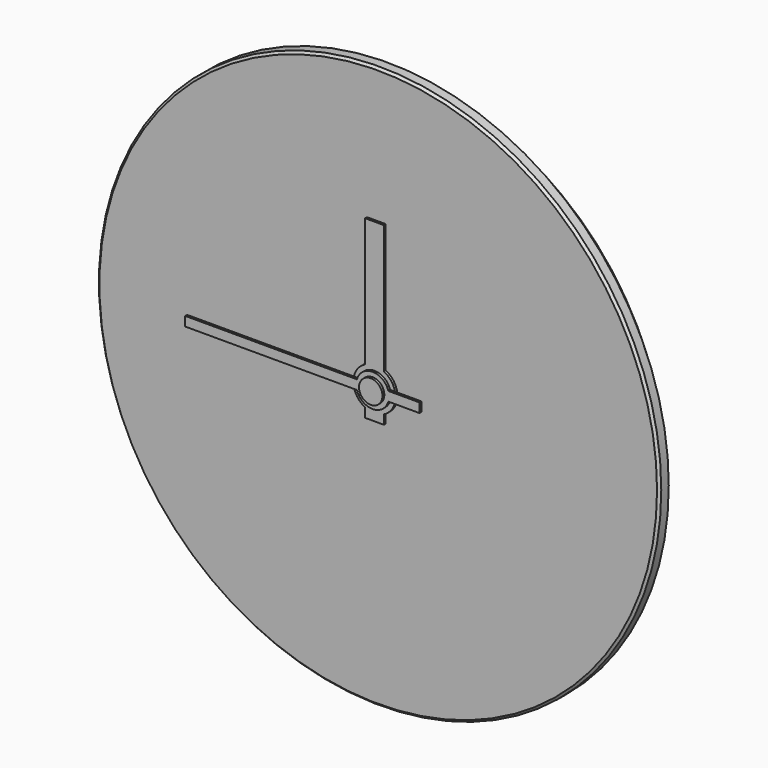
from build123d import *

# Parameters (mm, degrees)
F0_R      = 120
F1_DEPTH  = 15
F2_R      = 2.5
F3_DEPTH  = 15
F5_DEPTH  = 17
F7_DEPTH  = 15.5
F8_W      = 16.4
F8_H      = 56
F9_DEPTH  = 7.8
F10_R     = 7
F11_DEPTH = 2
F12_R     = 1
F13_R     = 7.125
F14_DEPTH = 21.9
F15_R     = 2
F16_R     = 4
F17_DEPTH = 15
F19_START = 1
F19_DEPTH = 1
F21_DEPTH = 1
F22_R     = 5
F23_DEPTH = 1
F24_SIZE  = 1
F25_SIZE  = 10
F27_DEPTH = 6


with BuildPart() as f1:
    # F0 (on Front) → F1 (new body)
    with BuildSketch(Plane.XZ):
        Circle(F0_R)
    extrude(amount=-F1_DEPTH)

    # F2 (on face) → F3 (cut, through all)
    with BuildSketch(Plane(origin=(0, 15, 0), x_dir=(-1, 0, 0), z_dir=(0, 1, 0))):
        Circle(F2_R)
    extrude(amount=-F3_DEPTH, mode=Mode.SUBTRACT)

    # F16 (on face) → F17 (cut, through all)
    with BuildSketch(Plane.XZ):
        Circle(F16_R)
    extrude(amount=-F17_DEPTH, mode=Mode.SUBTRACT)

    # F24
    f24_edges = [f1.edges().sort_by_distance(p)[0] for p in [
        (-120, 0, 0),
    ]]
    chamfer(f24_edges, length=F24_SIZE)

    # F25
    f25_edges = [f1.edges().sort_by_distance(p)[0] for p in [
        (-120, 15, 0),
    ]]
    chamfer(f25_edges, length=F25_SIZE)


with BuildPart() as f5:
    # F4 (on face) → F5 (new body)
    with BuildSketch(Plane(origin=(0, 15, 0), x_dir=(-1, 0, 0), z_dir=(0, 1, 0))):
        with BuildLine():
            ThreePointArc((-28, -20), (-25.6568542495, -25.6568542495), (-20, -28))
            Line((-20, -28), (20, -28))
            ThreePointArc((20, -28), (25.6568542495, -25.6568542495), (28, -20))
            Line((28, -20), (28, 20))
            ThreePointArc((28, 20), (25.6568542495, 25.6568542495), (20, 28))
            Line((20, 28), (-20, 28))
            ThreePointArc((-20, 28), (-25.6568542495, 25.6568542495), (-28, 20))
            Line((-28, 20), (-28, -20))
        make_face()
    extrude(amount=F5_DEPTH)

    # F6 (on face) → F7 (cut)
    with BuildSketch(Plane(origin=(0, 32, 0), x_dir=(-1, 0, 0), z_dir=(0, 1, 0))):
        with BuildLine():
            Line((-25.6, 20), (-25.6, -20))
            ThreePointArc((-25.6, -20), (-23.9597979746, -23.9597979746), (-20, -25.6))
            Line((-20, -25.6), (-11.6, -25.6))
            Line((-11.6, -25.6), (-11.6, 25.6))
            Line((-11.6, 25.6), (-20, 25.6))
            ThreePointArc((-20, 25.6), (-23.9597979746, 23.9597979746), (-25.6, 20))
        make_face()
    extrude(amount=-F7_DEPTH, mode=Mode.SUBTRACT)

    # F8 (on face) → F9 (cut)
    with BuildSketch(Plane(origin=(0, 32, 0), x_dir=(-1, 0, 0), z_dir=(0, 1, 0))):
        with Locations((-19.8, 0)):
            Rectangle(F8_W, F8_H)
    extrude(amount=-F9_DEPTH, mode=Mode.SUBTRACT)

    # F10 (on face) → F11 (cut)
    with BuildSketch(Plane(origin=(0, 32, 0), x_dir=(-1, 0, 0), z_dir=(0, 1, 0))):
        with BuildLine():
            Line((-11.6, 28), (-11.6, 12))
            Line((-11.6, 12), (-3.6, 12))
            ThreePointArc((-3.6, 12), (2.0568542495, 14.3431457505), (4.4, 20))
            Line((4.4, 20), (4.4, 28))
            Line((4.4, 28), (-11.6, 28))
        make_face()
        with Locations((-3.6, 20)):
            Circle(F10_R, mode=Mode.SUBTRACT)
    extrude(amount=-F11_DEPTH, mode=Mode.SUBTRACT)

    # F12
    f12_edges = [f5.edges().sort_by_distance(p)[0] for p in [
        (7.6, 32, 12),
        (-2.056854, 32, 14.343146),
        (-4.4, 32, 24),
        (-12.2, 32, 28),
        (-25.656854, 32, 25.656854),
        (-28, 32, 0),
        (-25.656854, 32, -25.656854),
        (-4.2, 32, -28),
        (11.6, 32, -8),
        (25.656854, 15, -25.656854),
        (0, 15, -28),
        (-25.656854, 15, -25.656854),
        (-28, 15, 0),
        (-25.656854, 15, 25.656854),
        (0, 15, 28),
        (25.656854, 15, 25.656854),
        (28, 15, 0),
    ]]
    fillet(f12_edges, radius=F12_R)

    # F26 (on face) → F27 (cut)
    with BuildSketch(Plane(origin=(0, 32, 0), x_dir=(-1, 0, 0), z_dir=(0, 1, 0))):
        with BuildLine():
            Line((14.908463777, -2.8692556116), (18.0987944834, -2.8692556116))
            ThreePointArc((18.0987944834, -2.8692556116), (20.968050095, 0), (18.0987944834, 2.8692556116))
            Line((18.0987944834, 2.8692556116), (14.908463777, 2.8692556116))
            ThreePointArc((14.908463777, 2.8692556116), (6.3112790491, 0), (14.908463777, -2.8692556116))
        make_face()
    extrude(amount=-F27_DEPTH, mode=Mode.SUBTRACT)


with BuildPart() as f14:
    # F13 (on Top) → F14 (new body, symmetric)
    with BuildSketch(Plane.XY):
        with Locations((18.6, 24.2)):
            Circle(F13_R)
    extrude(amount=F14_DEPTH, both=True)

    # F15
    f15_edges = [f14.edges().sort_by_distance(p)[0] for p in [
        (11.475, 24.2, -21.9),
        (11.475, 24.2, 21.9),
    ]]
    fillet(f15_edges, radius=F15_R)


with BuildPart() as f19:
    # F18 (on face) → F19 (new body)
    with BuildSketch(Plane.XZ.offset(F19_START)):
        with BuildLine():
            Line((-4, -8.0622577483), (-4, -8))
            Line((-4, -8), (-4, 8.0622577483))
            ThreePointArc((-4, 8.0622577483), (-9, 0), (-4, -8.0622577483))
        make_face()
        with BuildLine():
            Line((-4, 8.0622577483), (-4, -8))
            Line((-4, -8), (-4, -8.0622577483))
            ThreePointArc((-4, -8.0622577483), (0, -9), (4, -8.0622577483))
            Line((4, -8.0622577483), (4, -8))
            Line((4, -8), (4, 8.0622577483))
            ThreePointArc((4, 8.0622577483), (0, 9), (-4, 8.0622577483))
        make_face()
        with BuildLine():
            Line((-4, 59), (-4, 8.0622577483))
            ThreePointArc((-4, 8.0622577483), (0, 9), (4, 8.0622577483))
            Line((4, 8.0622577483), (4, 59))
            Line((4, 59), (4, 63))
            Line((4, 63), (-4, 63))
            Line((-4, 63), (-4, 59))
        make_face()
        with BuildLine():
            ThreePointArc((4, -8.0622577483), (0, -9), (-4, -8.0622577483))
            Line((-4, -8.0622577483), (-4, -12))
            Line((-4, -12), (4, -12))
            Line((4, -12), (4, -8.0622577483))
        make_face()
        with BuildLine():
            ThreePointArc((9, 0), (7.6485292704, 4.7434164903), (4, 8.0622577483))
            Line((4, 8.0622577483), (4, -8))
            Line((4, -8), (4, -8.0622577483))
            ThreePointArc((4, -8.0622577483), (7.6485292704, -4.7434164903), (9, 0))
        make_face()
    extrude(amount=F19_DEPTH)


with BuildPart() as f21:
    # F20 (on face) → F21 (new body)
    with BuildSketch(Plane.XZ.offset(2)):
        with BuildLine():
            ThreePointArc((6.7082039325, -2), (6.9266668581, -1.010587075), (7, 0))
            ThreePointArc((7, 0), (6.9266668581, 1.010587075), (6.7082039325, 2))
            Line((6.7082039325, 2), (-6.7082039325, 2))
            ThreePointArc((-6.7082039325, 2), (-7, 0), (-6.7082039325, -2))
            Line((-6.7082039325, -2), (6.7082039325, -2))
        make_face()
        with BuildLine():
            ThreePointArc((6.7082039325, 2), (6.9266668581, 1.010587075), (7, 0))
            ThreePointArc((7, 0), (6.9266668581, -1.010587075), (6.7082039325, -2))
            Line((6.7082039325, -2), (20, -2))
            Line((20, -2), (20, 2))
            Line((20, 2), (6.7082039325, 2))
        make_face()
        with BuildLine():
            Line((-6.7082039325, 2), (6.7082039325, 2))
            ThreePointArc((6.7082039325, 2), (0, 7), (-6.7082039325, 2))
        make_face()
        with BuildLine():
            ThreePointArc((-6.7082039325, -2), (0, -7), (6.7082039325, -2))
            Line((6.7082039325, -2), (-6.7082039325, -2))
        make_face()
        with BuildLine():
            ThreePointArc((-6.7082039325, -2), (-7, 0), (-6.7082039325, 2))
            Line((-6.7082039325, 2), (-80, 2))
            Line((-80, 2), (-80, -2))
            Line((-80, -2), (-6.7082039325, -2))
        make_face()
    extrude(amount=F21_DEPTH)


with BuildPart() as f23:
    # F22 (on face) → F23 (new body)
    with BuildSketch(Plane.XZ.offset(3)):
        Circle(F22_R)
    extrude(amount=F23_DEPTH)


solid = Compound([f1.part, f5.part, f14.part, f19.part, f21.part, f23.part])
